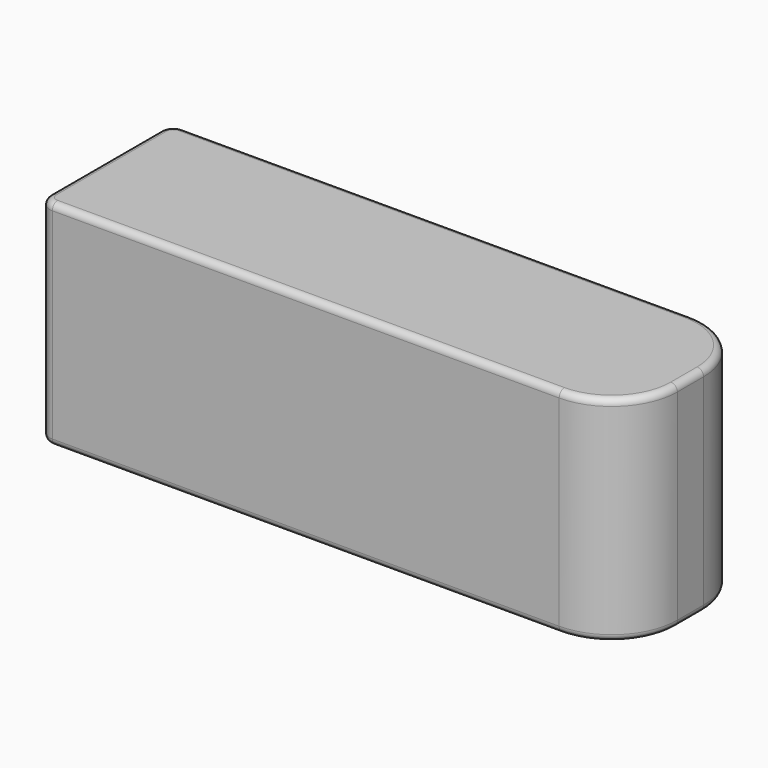
from build123d import *

# Parameters (mm, degrees)
BOX_W       = 44.6
BOX_H       = 12.5
BOX_DEPTH   = 16.3
FILLET_R    = 5
FILLET001_R = 1
FILLET002_R = 0.5


with BuildPart() as part:
    # Box → Box (new body)
    with BuildSketch(Plane.XY):
        with Locations((22.3, 6.25)):
            Rectangle(BOX_W, BOX_H)
    extrude(amount=BOX_DEPTH)

    # Fillet
    fillet_edges = [part.edges().sort_by_distance(p)[0] for p in [
        (44.6, 0, 8.15),
        (44.6, 12.5, 8.15),
    ]]
    fillet(fillet_edges, radius=FILLET_R)

    # Fillet001
    fillet001_edges = [part.edges().sort_by_distance(p)[0] for p in [
        (0, 12.5, 8.15),
        (0, 0, 8.15),
    ]]
    fillet(fillet001_edges, radius=FILLET001_R)

    # Fillet002
    fillet002_edges = [part.edges().sort_by_distance(p)[0] for p in [
        (20.3, 12.5, 16.3),
        (20.3, 12.5, 0),
    ]]
    fillet(fillet002_edges, radius=FILLET002_R)


solid = part.part
